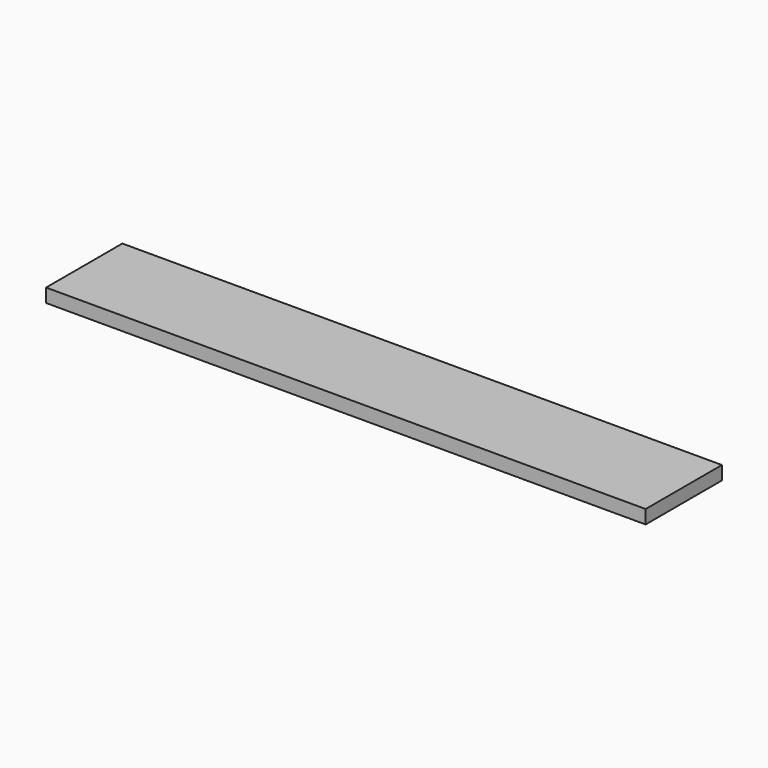
from build123d import *

# Parameters (mm, degrees)
SKETCH_W  = 559.05
SKETCH_H  = 88.9
PAD_DEPTH = 12.7


with BuildPart() as part:
    # Sketch → Pad (new body)
    with BuildSketch(Plane.XY):
        with Locations((279.525, 44.45)):
            Rectangle(SKETCH_W, SKETCH_H)
    extrude(amount=PAD_DEPTH)


solid = part.part
